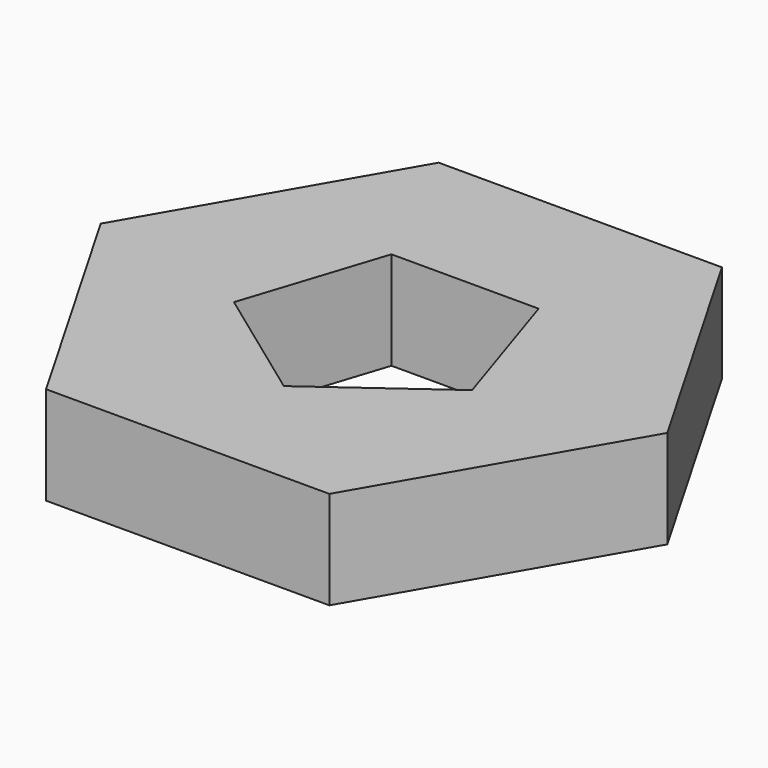
from build123d import *

# Parameters (mm, degrees)
EXTRUDE_DEPTH = 10


with BuildPart() as part:
    # Sketch → Extrude (new body)
    with BuildSketch(Plane.XY):
        Polygon((28.867513, 0), (14.433757, 25), (-14.433757, 25), (-28.867513, 0), (-14.433757, -25), (14.433757, -25), align=None)
        Polygon((7.5, 10.322864), (-7.5, 10.322864), (-12.135255, -3.942983), (0, -12.759762), (12.135255, -3.942983), align=None, mode=Mode.SUBTRACT)
    extrude(amount=EXTRUDE_DEPTH)


solid = part.part
